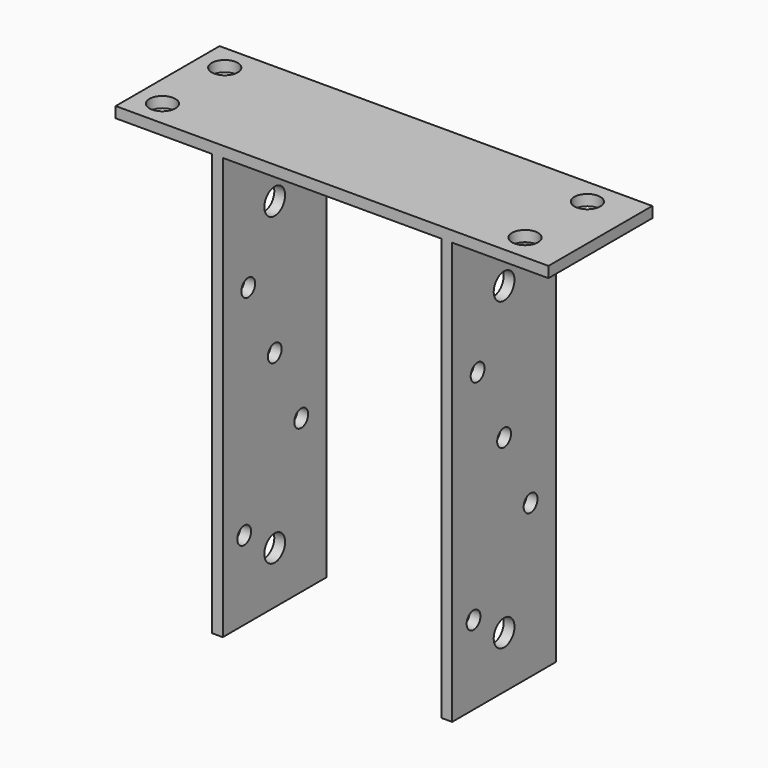
from build123d import *

# Parameters (mm, degrees)
F1_DEPTH = 60
F2_R     = 6
F3_DEPTH = 25
F4_R     = 6
F4_R_2   = 4
F5_DEPTH = 155.501


with BuildPart() as f1:
    # F0 (on Front) → F1 (new body)
    with BuildSketch(Plane.XZ):
        Polygon((104.208015, 89.68718), (-95.791985, 89.68718), (-95.791985, 84.68718), (-51.291985, 84.68718), (-51.291985, -110.31282), (-46.291985, -110.31282), (-46.291985, 84.68718), (54.708015, 84.68718), (54.708015, -110.31282), (59.708015, -110.31282), (59.708015, 84.68718), (104.208015, 84.68718), align=None)
    extrude(amount=F1_DEPTH)

    # F2 (on face) → F3 (cut)
    with BuildSketch(Plane.XY.offset(89.68718)):
        with Locations((-83.791985, -12)):
            Circle(F2_R)
        with Locations((83.791985, -12)):
            Circle(F2_R)
        with Locations((-83.791985, -48)):
            Circle(F2_R)
        with Locations((83.791985, -48)):
            Circle(F2_R)
    extrude(amount=-F3_DEPTH, mode=Mode.SUBTRACT)

    # F4 (on face) → F5 (cut, through all)
    with BuildSketch(Plane(origin=(-51.291985, 0, 0), x_dir=(0, -1, 0), z_dir=(-1, 0, 0))):
        with Locations((30, 54.878019)):
            Circle(F4_R)
        with Locations((30, -86.190678)):
            Circle(F4_R)
        with Locations((30, -6.819744)):
            Circle(F4_R_2)
        with Locations((14.702255, -39.625864)):
            Circle(F4_R_2)
        with Locations((45.297745, 25.986376)):
            Circle(F4_R_2)
        with Locations((47.644541, -73.885843)):
            Circle(F4_R_2)
    extrude(amount=-F5_DEPTH, mode=Mode.SUBTRACT)


solid = f1.part
